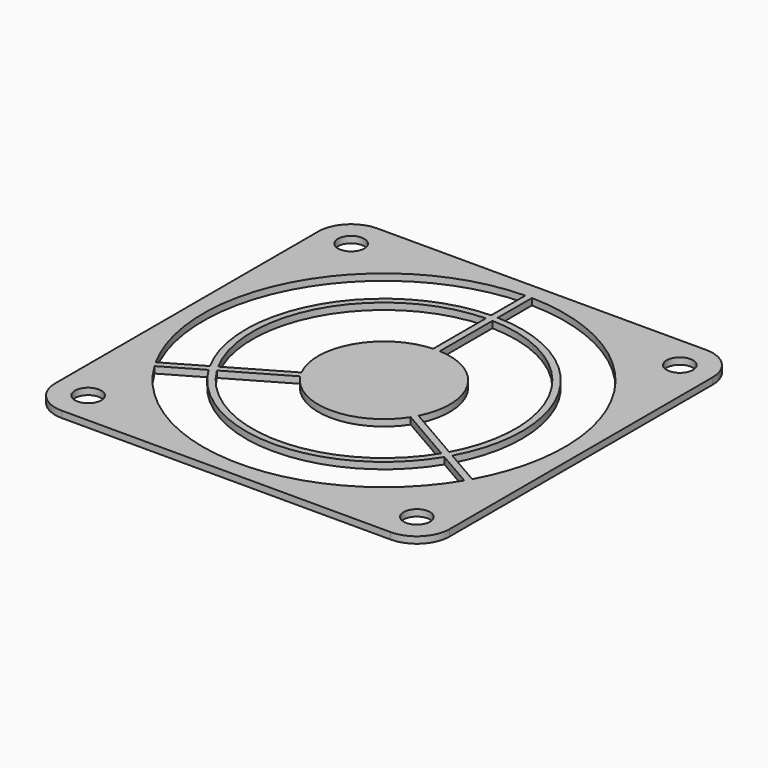
from build123d import *

# Parameters (mm, degrees)
F0_W     = 60
F0_H     = 60
F0_R     = 2
F1_DEPTH = 1
F2_R     = 5


with BuildPart() as f1:
    # F0 (on Top) → F1 (new body)
    with BuildSketch(Plane.XY):
        Rectangle(F0_W, F0_H)
        with Locations((-25, -25)):
            Circle(F0_R, mode=Mode.SUBTRACT)
        with BuildLine():
            Line((-23.561762, -14.18074), (-17.931378, -10.930036))
            ThreePointArc((-17.931378, -10.930036), (0, -21), (17.931378, -10.930036))
            Line((17.931378, -10.930036), (23.561762, -14.18074))
            ThreePointArc((23.561762, -14.18074), (0, -27.5), (-23.561762, -14.18074))
        make_face(mode=Mode.SUBTRACT)
        with Locations((25, -25)):
            Circle(F0_R, mode=Mode.SUBTRACT)
        with BuildLine():
            ThreePointArc((17.065095, -10.429887), (0, -20), (-17.065095, -10.429887))
            Line((-17.065095, -10.429887), (-8.399422, -5.426759))
            ThreePointArc((-8.399422, -5.426759), (0, -10), (8.399422, -5.426759))
            Line((8.399422, -5.426759), (17.065095, -10.429887))
        make_face(mode=Mode.SUBTRACT)
        with BuildLine():
            ThreePointArc((-24.061762, -13.314714), (-23.815699, 13.75), (-0.5, 27.495454))
            Line((-0.5, 27.495454), (-0.5, 20.994047))
            ThreePointArc((-0.5, 20.994047), (-18.186533, 10.5), (-18.431378, -10.064011))
            Line((-18.431378, -10.064011), (-24.061762, -13.314714))
        make_face(mode=Mode.SUBTRACT)
        with BuildLine():
            Line((-0.5, 19.993749), (-0.5, 9.987492))
            ThreePointArc((-0.5, 9.987492), (-8.660254, 5), (-8.899422, -4.560733))
            Line((-8.899422, -4.560733), (-17.565095, -9.563862))
            ThreePointArc((-17.565095, -9.563862), (-17.320508, 10), (-0.5, 19.993749))
        make_face(mode=Mode.SUBTRACT)
        with Locations((-25, 25)):
            Circle(F0_R, mode=Mode.SUBTRACT)
        with BuildLine():
            Line((17.565095, -9.563862), (8.899422, -4.560733))
            ThreePointArc((8.899422, -4.560733), (8.660254, 5), (0.5, 9.987492))
            Line((0.5, 9.987492), (0.5, 19.993749))
            ThreePointArc((0.5, 19.993749), (17.320508, 10), (17.565095, -9.563862))
        make_face(mode=Mode.SUBTRACT)
        with BuildLine():
            Line((24.061762, -13.314714), (18.431378, -10.064011))
            ThreePointArc((18.431378, -10.064011), (18.186533, 10.5), (0.5, 20.994047))
            Line((0.5, 20.994047), (0.5, 27.495454))
            ThreePointArc((0.5, 27.495454), (23.815699, 13.75), (24.061762, -13.314714))
        make_face(mode=Mode.SUBTRACT)
        with Locations((25, 25)):
            Circle(F0_R, mode=Mode.SUBTRACT)
    extrude(amount=F1_DEPTH)

    # F2
    f2_edges = [f1.edges().sort_by_distance(p)[0] for p in [
        (-30, -30, 0.5),
        (30, -30, 0.5),
        (-30, 30, 0.5),
        (30, 30, 0.5),
    ]]
    fillet(f2_edges, radius=F2_R)


solid = f1.part
